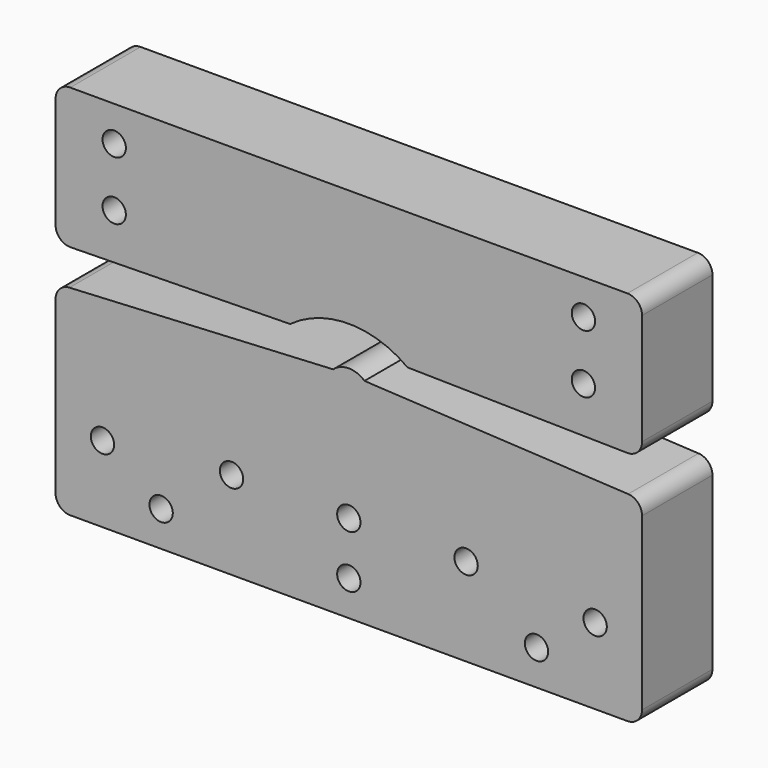
from build123d import *

# Parameters (mm, degrees)
F0_R     = 2.5273
F1_DEPTH = 19.05


with BuildPart() as f1:
    # F0 (on Front) → F1 (new body)
    with BuildSketch(Plane.XZ):
        with BuildLine():
            ThreePointArc((-63.5, 3.175), (-62.570064, 0.929936), (-60.325, 0))
            Line((-60.325, 0), (60.325, 0))
            ThreePointArc((60.325, 0), (62.570064, 0.929936), (63.5, 3.175))
            Line((63.5, 3.175), (63.5, 40.167038))
            ThreePointArc((63.5, 40.167038), (62.628064, 42.352563), (60.491167, 43.337686))
            Line((60.491167, 43.337686), (3.387856, 46.330344))
            ThreePointArc((3.387856, 46.330344), (0, 47.625), (-3.387856, 46.330344))
            Line((-3.387856, 46.330344), (-60.491167, 43.337686))
            ThreePointArc((-60.491167, 43.337686), (-62.628064, 42.352563), (-63.5, 40.167038))
            Line((-63.5, 40.167038), (-63.5, 3.175))
        make_face()
        with Locations((-40.64, 7.62)):
            Circle(F0_R, mode=Mode.SUBTRACT)
        with Locations((-53.34, 16.51)):
            Circle(F0_R, mode=Mode.SUBTRACT)
        with Locations((-25.4, 19.05)):
            Circle(F0_R, mode=Mode.SUBTRACT)
        with Locations((0, 7.62)):
            Circle(F0_R, mode=Mode.SUBTRACT)
        with Locations((3e-06, 19.05)):
            Circle(F0_R, mode=Mode.SUBTRACT)
        with Locations((25.4, 19.05)):
            Circle(F0_R, mode=Mode.SUBTRACT)
        with Locations((40.64, 7.62)):
            Circle(F0_R, mode=Mode.SUBTRACT)
        with Locations((53.34, 16.51)):
            Circle(F0_R, mode=Mode.SUBTRACT)
        with BuildLine():
            Line((60.325, 81.534), (-60.325, 81.534))
            ThreePointArc((-60.325, 81.534), (-62.570064, 80.604064), (-63.5, 78.359))
            Line((-63.5, 78.359), (-63.5, 54.284903))
            ThreePointArc((-63.5, 54.284903), (-62.550387, 52.020333), (-60.269589, 51.110387))
            Line((-60.269589, 51.110387), (-12.699989, 51.940717))
            ThreePointArc((-12.699989, 51.940717), (1.1e-05, 56.134), (12.700011, 51.940717))
            Line((12.700011, 51.940717), (60.269589, 51.110387))
            ThreePointArc((60.269589, 51.110387), (62.550387, 52.020333), (63.5, 54.284903))
            Line((63.5, 54.284903), (63.5, 78.359))
            ThreePointArc((63.5, 78.359), (62.570064, 80.604064), (60.325, 81.534))
        make_face()
        with Locations((-50.8, 61.214)):
            Circle(F0_R, mode=Mode.SUBTRACT)
        with Locations((-50.8, 73.914)):
            Circle(F0_R, mode=Mode.SUBTRACT)
        with Locations((50.8, 61.214)):
            Circle(F0_R, mode=Mode.SUBTRACT)
        with Locations((50.8, 73.914)):
            Circle(F0_R, mode=Mode.SUBTRACT)
    extrude(amount=F1_DEPTH)


solid = f1.part
